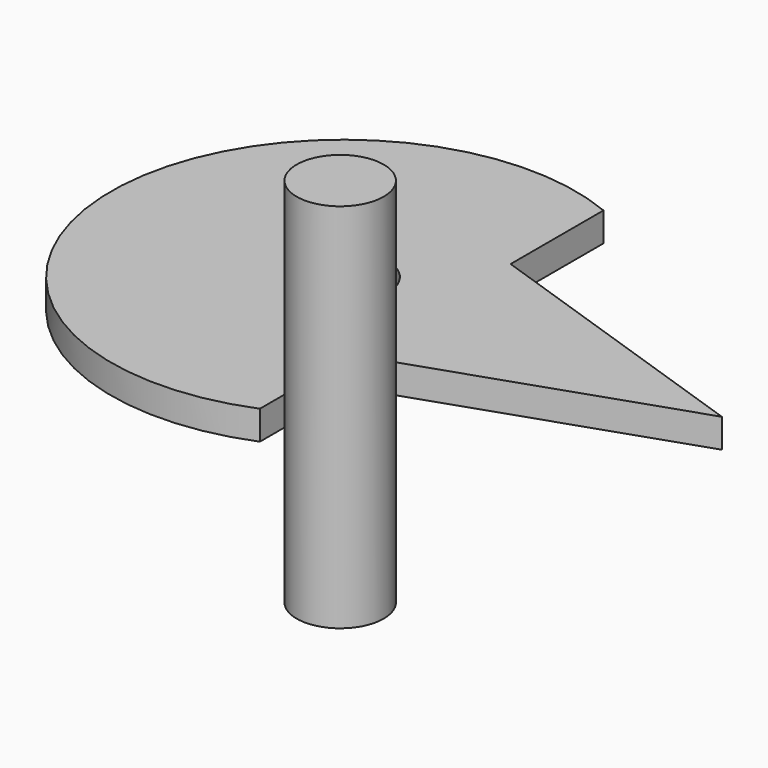
from build123d import *

# Parameters (mm, degrees)
F0_R     = 4.826
F1_DEPTH = 3.175
F2_R     = 4.7625
F3_DEPTH = 40.64


with BuildPart() as f1:
    # F0 (on Top) → F1 (new body)
    with BuildSketch(Plane.XY):
        with BuildLine():
            Line((9.656452, 10.792827), (9.656452, 23.492827))
            ThreePointArc((9.656452, 23.492827), (-25.4, 0), (9.656452, -23.492827))
            Line((9.656452, -23.492827), (9.656452, -10.792827))
            Line((9.656452, -10.792827), (41.406452, 0))
            Line((41.406452, 0), (9.656452, 10.792827))
        make_face()
        Circle(F0_R, mode=Mode.SUBTRACT)
    extrude(amount=F1_DEPTH)


with BuildPart() as f3:
    # F2 (on Top) → F3 (new body)
    with BuildSketch(Plane.XY):
        with Locations((33.609118, -42.450391)):
            Circle(F2_R)
    extrude(amount=F3_DEPTH)


solid = Compound([f1.part, f3.part])
